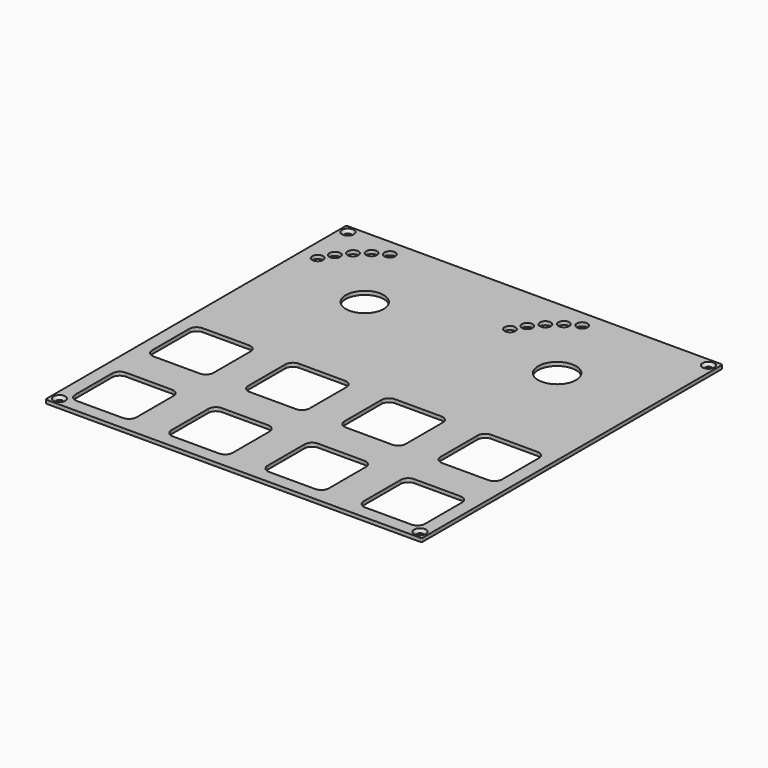
from build123d import *

# Parameters (mm, degrees)
PAD_DEPTH        = 1
POCKET_DEPTH     = 0.001
HOLE_D           = 1.75
HOLE_CSINK_D     = 3.3
HOLE_CSINK_ANGLE = 90
SKETCH025_R      = 5.25
SKETCH025_R_2    = 1.5
POCKET007_DEPTH  = 5
POCKET008_DEPTH  = 1.001


with BuildPart() as part:
    # Sketch → Pad (new body)
    with BuildSketch(Plane.XY):
        with BuildLine():
            Line((-51.8, 52.175), (51.8, 52.175))
            ThreePointArc((52.175, 51.8), (52.065165, 52.065165), (51.8, 52.175))
            Line((52.175, 51.8), (52.175, -51.8))
            ThreePointArc((51.8, -52.175), (52.065165, -52.065165), (52.175, -51.8))
            Line((51.8, -52.175), (-51.8, -52.175))
            ThreePointArc((-52.175, -51.8), (-52.065165, -52.065165), (-51.8, -52.175))
            Line((-52.175, -51.8), (-52.175, 51.8))
            ThreePointArc((-51.8, 52.175), (-52.065165, 52.065165), (-52.175, 51.8))
        make_face()
    extrude(amount=-PAD_DEPTH)

    # Sketch002 → Pocket (cut, through all)
    with BuildSketch(Plane.XY.offset(-4.8)):
        with BuildLine():
            Line((-45, 50.175), (45, 50.175))
            ThreePointArc((45, 50.175), (45.353553, 50.321447), (45.5, 50.675))
            ThreePointArc((45.5, 50.675), (45.353553, 51.028553), (45, 51.175))
            Line((-45, 51.175), (45, 51.175))
            ThreePointArc((-45, 51.175), (-45.353553, 51.028553), (-45.5, 50.675))
            ThreePointArc((-45.5, 50.675), (-45.353553, 50.321447), (-45, 50.175))
        make_face()
        with BuildLine():
            Line((-45, -51.175), (45, -51.175))
            ThreePointArc((45, -51.175), (45.353553, -51.028553), (45.5, -50.675))
            ThreePointArc((45.5, -50.675), (45.353553, -50.321447), (45, -50.175))
            Line((-45, -50.175), (45, -50.175))
            ThreePointArc((-45, -50.175), (-45.353553, -50.321447), (-45.5, -50.675))
            ThreePointArc((-45.5, -50.675), (-45.353553, -51.028553), (-45, -51.175))
        make_face()
        with BuildLine():
            Line((51.175, -45), (51.175, 45))
            ThreePointArc((51.175, 45), (51.028553, 45.353553), (50.675, 45.5))
            ThreePointArc((50.675, 45.5), (50.321447, 45.353553), (50.175, 45))
            Line((50.175, -45), (50.175, 45))
            ThreePointArc((50.175, -45), (50.321447, -45.353553), (50.675, -45.5))
            ThreePointArc((50.675, -45.5), (51.028553, -45.353553), (51.175, -45))
        make_face()
        with BuildLine():
            Line((-50.175, -45), (-50.175, 45))
            ThreePointArc((-50.175, 45), (-50.321447, 45.353553), (-50.675, 45.5))
            ThreePointArc((-50.675, 45.5), (-51.028553, 45.353553), (-51.175, 45))
            Line((-51.175, -45), (-51.175, 45))
            ThreePointArc((-51.175, -45), (-51.028553, -45.353553), (-50.675, -45.5))
            ThreePointArc((-50.675, -45.5), (-50.321447, -45.353553), (-50.175, -45))
        make_face()
    extrude(amount=-POCKET_DEPTH, mode=Mode.SUBTRACT)

    # Hole (through all)
    with Locations(Plane.XY):
        with Locations((-50, 50), (50, 50), (50, -50), (-50, -50)):
            CounterSinkHole(HOLE_D / 2, HOLE_CSINK_D / 2, counter_sink_angle=HOLE_CSINK_ANGLE)

    # Sketch025 → Pocket007 (cut)
    with BuildSketch(Plane.XY):
        with Locations((-26.67, 26.67)):
            Circle(SKETCH025_R)
        with Locations((26.67, 26.67)):
            Circle(SKETCH025_R)
        with Locations((-47.515079, 36.39022)):
            Circle(SKETCH025_R_2)
        with Locations((-45.510497, 39.862258)):
            Circle(SKETCH025_R_2)
        with Locations((-42.933456, 42.933456)):
            Circle(SKETCH025_R_2)
        with Locations((-39.862258, 45.510497)):
            Circle(SKETCH025_R_2)
        with Locations((-36.39022, 47.515079)):
            Circle(SKETCH025_R_2)
        with Locations((5.824921, 36.39022)):
            Circle(SKETCH025_R_2)
        with Locations((7.829503, 39.862258)):
            Circle(SKETCH025_R_2)
        with Locations((10.406544, 42.933456)):
            Circle(SKETCH025_R_2)
        with Locations((13.477742, 45.510497)):
            Circle(SKETCH025_R_2)
        with Locations((16.94978, 47.515079)):
            Circle(SKETCH025_R_2)
    extrude(amount=-POCKET007_DEPTH, mode=Mode.SUBTRACT)

    # Sketch023 → Pocket008 (cut, through all)
    with BuildSketch(Plane.XY):
        with BuildLine():
            Line((-48.505, -19.735), (-48.505, -6.935))
            ThreePointArc((-46.405, -4.835), (-47.889924, -5.450076), (-48.505, -6.935))
            Line((-46.405, -4.835), (-33.605, -4.835))
            ThreePointArc((-31.505, -6.935), (-32.120076, -5.450076), (-33.605, -4.835))
            Line((-31.505, -6.935), (-31.505, -19.735))
            ThreePointArc((-33.605, -21.835), (-32.120076, -21.219924), (-31.505, -19.735))
            Line((-33.605, -21.835), (-46.405, -21.835))
            ThreePointArc((-48.505, -19.735), (-47.889924, -21.219924), (-46.405, -21.835))
        make_face()
        with BuildLine():
            Line((-21.835, -19.735), (-21.835, -6.935))
            ThreePointArc((-19.735, -4.835), (-21.219924, -5.450076), (-21.835, -6.935))
            Line((-19.735, -4.835), (-6.935, -4.835))
            ThreePointArc((-4.835, -6.935), (-5.450076, -5.450076), (-6.935, -4.835))
            Line((-4.835, -6.935), (-4.835, -19.735))
            ThreePointArc((-6.935, -21.835), (-5.450076, -21.219924), (-4.835, -19.735))
            Line((-6.935, -21.835), (-19.735, -21.835))
            ThreePointArc((-21.835, -19.735), (-21.219924, -21.219924), (-19.735, -21.835))
        make_face()
        with BuildLine():
            Line((4.835, -19.735), (4.835, -6.935))
            ThreePointArc((6.935, -4.835), (5.450076, -5.450076), (4.835, -6.935))
            Line((6.935, -4.835), (19.735, -4.835))
            ThreePointArc((21.835, -6.935), (21.219924, -5.450076), (19.735, -4.835))
            Line((21.835, -6.935), (21.835, -19.735))
            ThreePointArc((19.735, -21.835), (21.219924, -21.219924), (21.835, -19.735))
            Line((19.735, -21.835), (6.935, -21.835))
            ThreePointArc((4.835, -19.735), (5.450076, -21.219924), (6.935, -21.835))
        make_face()
        with BuildLine():
            Line((31.505, -19.735), (31.505, -6.935))
            ThreePointArc((33.605, -4.835), (32.120076, -5.450076), (31.505, -6.935))
            Line((33.605, -4.835), (46.405, -4.835))
            ThreePointArc((48.505, -6.935), (47.889924, -5.450076), (46.405, -4.835))
            Line((48.505, -6.935), (48.505, -19.735))
            ThreePointArc((46.405, -21.835), (47.889924, -21.219924), (48.505, -19.735))
            Line((46.405, -21.835), (33.605, -21.835))
            ThreePointArc((31.505, -19.735), (32.120076, -21.219924), (33.605, -21.835))
        make_face()
        with BuildLine():
            Line((31.505, -46.405), (31.505, -33.605))
            ThreePointArc((33.605, -31.505), (32.120076, -32.120076), (31.505, -33.605))
            Line((33.605, -31.505), (46.405, -31.505))
            ThreePointArc((48.505, -33.605), (47.889924, -32.120076), (46.405, -31.505))
            Line((48.505, -33.605), (48.505, -46.405))
            ThreePointArc((46.405, -48.505), (47.889924, -47.889924), (48.505, -46.405))
            Line((46.405, -48.505), (33.605, -48.505))
            ThreePointArc((31.505, -46.405), (32.120076, -47.889924), (33.605, -48.505))
        make_face()
        with BuildLine():
            Line((4.835, -46.405), (4.835, -33.605))
            ThreePointArc((6.935, -31.505), (5.450076, -32.120076), (4.835, -33.605))
            Line((6.935, -31.505), (19.735, -31.505))
            ThreePointArc((21.835, -33.605), (21.219924, -32.120076), (19.735, -31.505))
            Line((21.835, -33.605), (21.835, -46.405))
            ThreePointArc((19.735, -48.505), (21.219924, -47.889924), (21.835, -46.405))
            Line((19.735, -48.505), (6.935, -48.505))
            ThreePointArc((4.835, -46.405), (5.450076, -47.889924), (6.935, -48.505))
        make_face()
        with BuildLine():
            Line((-21.835, -46.405), (-21.835, -33.605))
            ThreePointArc((-19.735, -31.505), (-21.219924, -32.120076), (-21.835, -33.605))
            Line((-19.735, -31.505), (-6.935, -31.505))
            ThreePointArc((-4.835, -33.605), (-5.450076, -32.120076), (-6.935, -31.505))
            Line((-4.835, -33.605), (-4.835, -46.405))
            ThreePointArc((-6.935, -48.505), (-5.450076, -47.889924), (-4.835, -46.405))
            Line((-6.935, -48.505), (-19.735, -48.505))
            ThreePointArc((-21.835, -46.405), (-21.219924, -47.889924), (-19.735, -48.505))
        make_face()
        with BuildLine():
            Line((-48.505, -46.405), (-48.505, -33.605))
            ThreePointArc((-46.405, -31.505), (-47.889924, -32.120076), (-48.505, -33.605))
            Line((-46.405, -31.505), (-33.605, -31.505))
            ThreePointArc((-31.505, -33.605), (-32.120076, -32.120076), (-33.605, -31.505))
            Line((-31.505, -33.605), (-31.505, -46.405))
            ThreePointArc((-33.605, -48.505), (-32.120076, -47.889924), (-31.505, -46.405))
            Line((-33.605, -48.505), (-46.405, -48.505))
            ThreePointArc((-48.505, -46.405), (-47.889924, -47.889924), (-46.405, -48.505))
        make_face()
    extrude(amount=-POCKET008_DEPTH, mode=Mode.SUBTRACT)


solid = part.part
